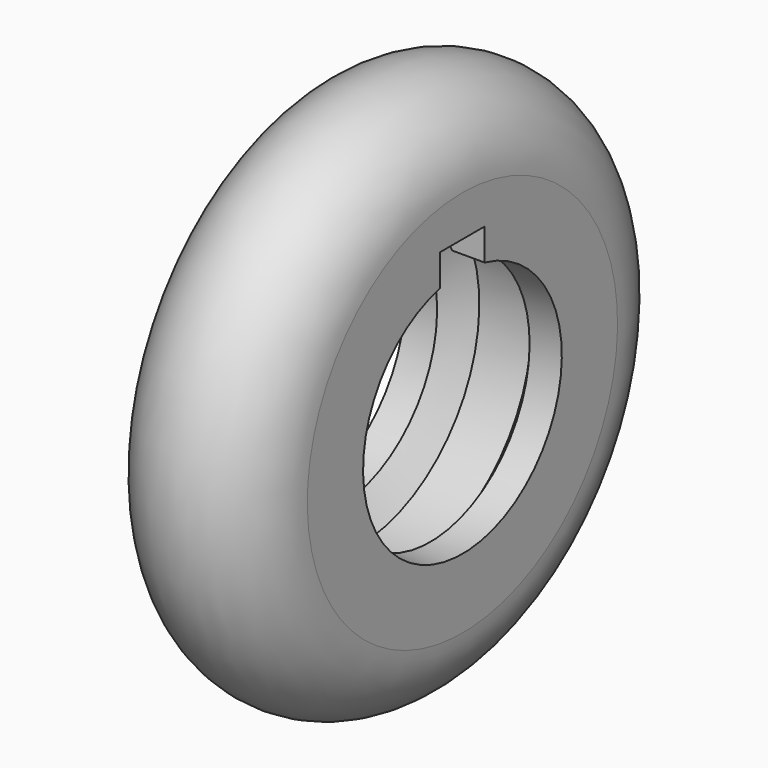
from build123d import *

# Parameters (mm, degrees)
F3_DEPTH = 38.079278


with BuildPart() as f1:
    # F0 (on Front) → F1 (revolve)
    with BuildSketch(Plane.XZ):
        with BuildLine():
            Line((11.224204, 30.1519), (19.039139, 30.1519))
            Line((19.039139, 30.1519), (19.039139, 47.066718))
            ThreePointArc((19.039139, 47.066718), (0, 66.105857), (-19.039139, 47.066718))
            Line((-19.039139, 47.066718), (-19.039139, 30.1519))
            Line((-19.039139, 30.1519), (-11.224204, 30.1519))
            Line((-11.224204, 30.1519), (-6.366854, 36.873989))
            Line((-6.366854, 36.873989), (6.366854, 36.873989))
            Line((6.366854, 36.873989), (11.224204, 30.1519))
        make_face()
    revolve(axis=Axis((-0.409778, 0, 0), (1, 0, 0)))

    # F2 (on face) → F3 (cut, through all)
    with BuildSketch(Plane.YZ.offset(19.039139)):
        with BuildLine():
            Line((-6.732479, 37.094571), (-6.732479, 29.390658))
            ThreePointArc((-6.732479, 29.390658), (0, 30.1519), (6.732479, 29.390658))
            Line((6.732479, 29.390658), (6.732479, 37.094571))
            Line((6.732479, 37.094571), (-6.732479, 37.094571))
        make_face()
    extrude(amount=-F3_DEPTH, mode=Mode.SUBTRACT)


solid = f1.part
